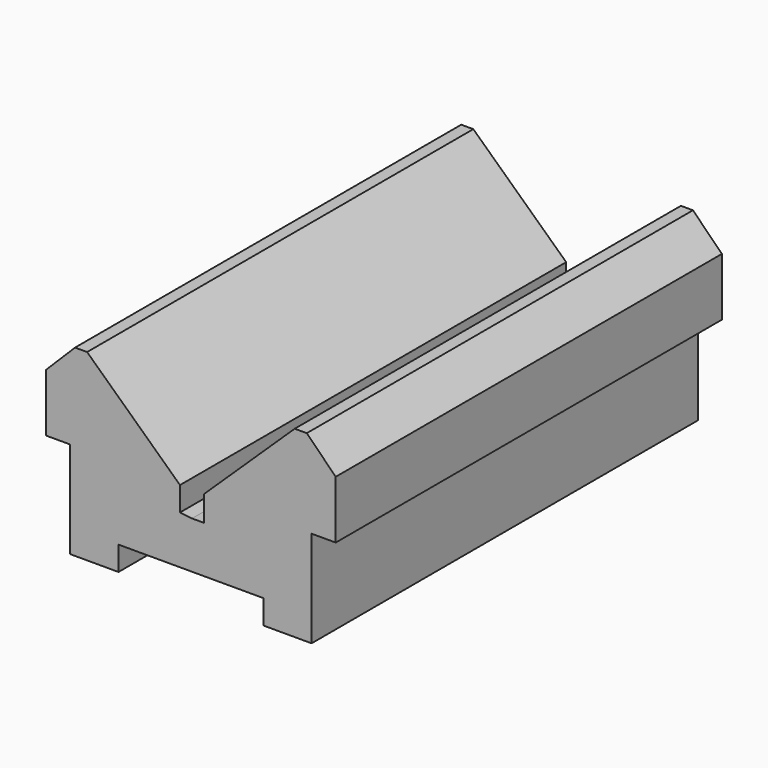
from build123d import *

# Parameters (mm, degrees)
F1_DEPTH = 100


with BuildPart() as f1:
    # F0 (on Front) → F1 (new body)
    with BuildSketch(Plane.XZ):
        Polygon((-15.238337, 0), (0, 0), (14.761663, 0), (14.761663, -5), (24.761663, -5), (24.761663, 15), (29.761663, 15), (29.761663, 27), (23.761663, 33), (21.261663, 33), (2.5, 15), (2.5, 9.722223), (0, 9.722223), (-2.5, 10), (-2.5, 15), (-21.738337, 33), (-24.238337, 33), (-30.238337, 27), (-30.238337, 15), (-25.238337, 15), (-25.238337, -5), (-15.238337, -5), align=None)
    extrude(amount=F1_DEPTH)


solid = f1.part
